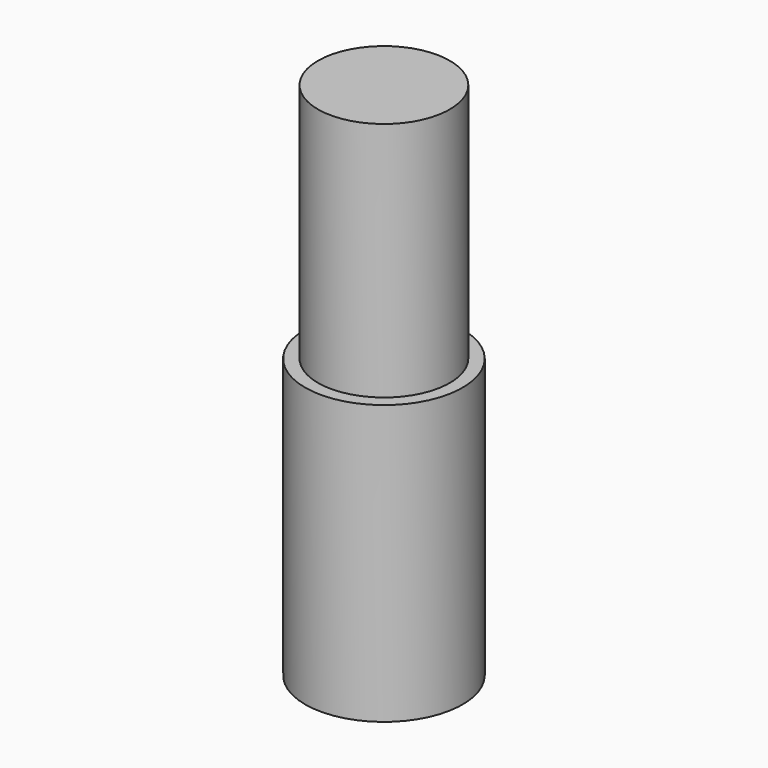
from build123d import *

# Parameters (mm, degrees)
F0_W     = 30.6967236102
F0_H     = 108.7295114994
F2_T     = -5
F3_DEPTH = 25
F4_DEPTH = 172.6


with BuildPart() as f1:
    # F0 (on Front) → F1 (revolve)
    with BuildSketch(Plane.XZ):
        with Locations((-15.3483618051, 0)):
            Rectangle(F0_W, F0_H)
    revolve(axis=Axis((0, 0, -2.295082435), (0, 0, -1)))

    # F2
    f2_openings = [f1.faces().sort_by_distance(p)[0] for p in [
        (0, 0, 54.364756),
    ]]
    offset(amount=F2_T, openings=f2_openings)

    # F3 (add): a face of the model
    f3_faces = [f1.faces().sort_by_distance(p)[0] for p in [
        (0, 0, -49.3647557497),
    ]]
    extrude(f3_faces, amount=F3_DEPTH)

    # F4 (add): a face of the model
    f4_faces = [f1.faces().sort_by_distance(p)[0] for p in [
        (0, 0, -24.3647557497),
    ]]
    extrude(f4_faces, amount=F4_DEPTH)


solid = f1.part
